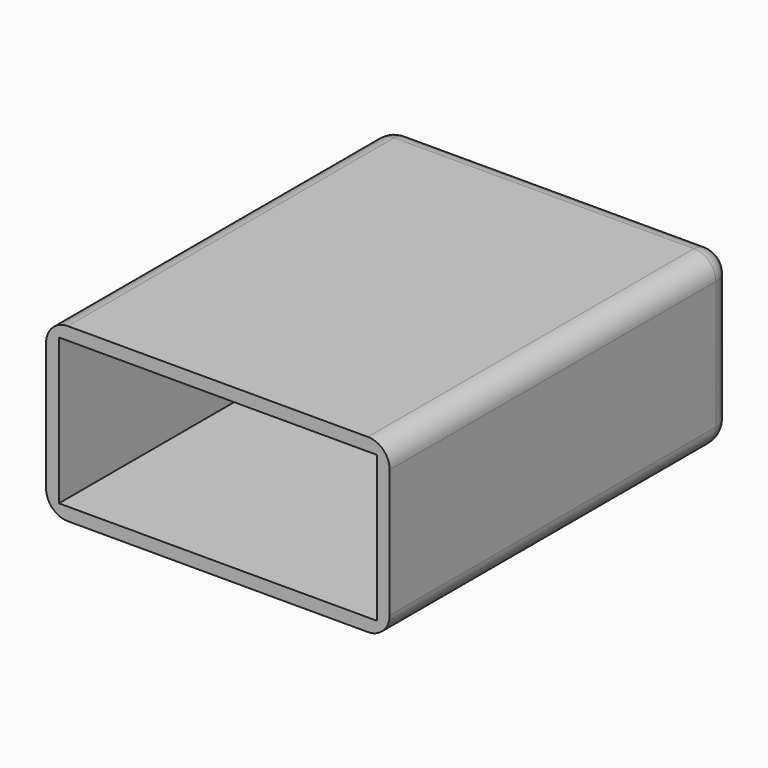
from build123d import *

# Parameters (mm, degrees)
F0_W     = 80
F0_H     = 40
F1_DEPTH = 100
F2_T     = -3
F3_R     = 5.08
F4_R     = 5.08
F5_R     = 5.08
F6_R     = 5.08
F8_W     = 6.79958
F8_H     = 1.99898
F9_DEPTH = 20


with BuildPart() as f1:
    # F0 (on Front) → F1 (new body)
    with BuildSketch(Plane.XZ):
        with Locations((40, 20)):
            Rectangle(F0_W, F0_H)
    extrude(amount=-F1_DEPTH)

    # F2
    f2_openings = [f1.faces().sort_by_distance(p)[0] for p in [
        (40, 0, 20),
    ]]
    offset(amount=F2_T, openings=f2_openings)

    # F3
    f3_edges = [f1.edges().sort_by_distance(p)[0] for p in [
        (0, 50, 40),
    ]]
    fillet(f3_edges, radius=F3_R)

    # F4
    f4_edges = [f1.edges().sort_by_distance(p)[0] for p in [
        (80, 50, 40),
    ]]
    fillet(f4_edges, radius=F4_R)

    # F5
    f5_edges = [f1.edges().sort_by_distance(p)[0] for p in [
        (40, 100, 40),
    ]]
    fillet(f5_edges, radius=F5_R)

    # F6
    f6_edges = [f1.edges().sort_by_distance(p)[0] for p in [
        (40, 100, 0),
    ]]
    fillet(f6_edges, radius=F6_R)

    # F8 (on face) → F9 (join)
    with BuildSketch(Plane(origin=(-44.92, 44.92, 0), x_dir=(0.707107, 0.707107, 0), z_dir=(0.707107, -0.707107, 0))):
        with Locations((70.902991, 20.67943)):
            Rectangle(F8_W, F8_H)
    extrude(amount=-F9_DEPTH)


solid = f1.part
